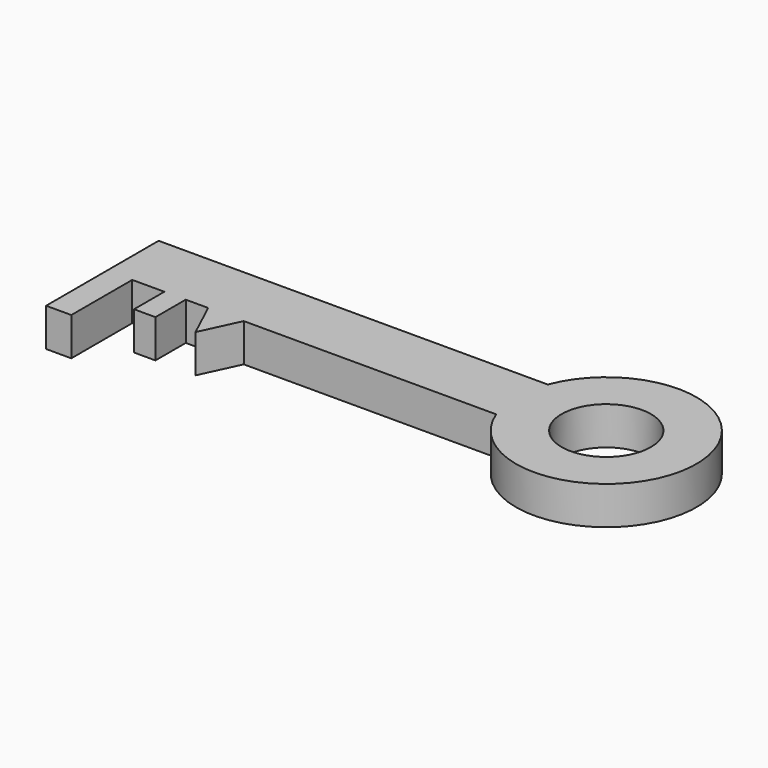
from build123d import *

# Parameters (mm, degrees)
F0_R     = 17.584848
F0_W     = 9.929022
F0_H     = 29.970982
F0_W_2   = 8.124356
F0_H_2   = 14.915843
F0_W_3   = 0.300904
F1_DEPTH = 15


with BuildPart() as f1:
    # F0 (on Top) → F1 (new body)
    with BuildSketch(Plane.XY):
        with BuildLine():
            ThreePointArc((79.197431, 0), (147.926391, 12.695156), (79.197431, 25.390312))
            Line((79.197431, 25.390312), (-73.949026, 25.390312))
            Line((-73.949026, 25.390312), (-73.949026, 0))
            Line((-73.949026, 0), (-64.020004, 0))
            Line((-64.020004, 0), (-63.418188, 0))
            Line((-63.418188, 0), (-51.382418, 0))
            Line((-51.382418, 0), (-51.081514, 0))
            Line((-51.081514, 0), (-42.957158, 0))
            Line((-42.957158, 0), (-34.131028, 0))
            Line((-34.131028, 0), (-20.131028, 0))
            Line((-20.131028, 0), (79.197431, 0))
        make_face()
        with Locations((112.389429, 12.695156)):
            Circle(F0_R, mode=Mode.SUBTRACT)
        with Locations((-68.984515, -14.985491)):
            Rectangle(F0_W, F0_H)
        Polygon((-27.131028, -15), (-20.131028, 0), (-34.131028, 0), align=None)
        with Locations((-47.019336, -7.457921)):
            Rectangle(F0_W_2, F0_H_2)
        with Locations((-51.231966, -7.457921)):
            Rectangle(F0_W_3, F0_H_2)
    extrude(amount=F1_DEPTH)


solid = f1.part
